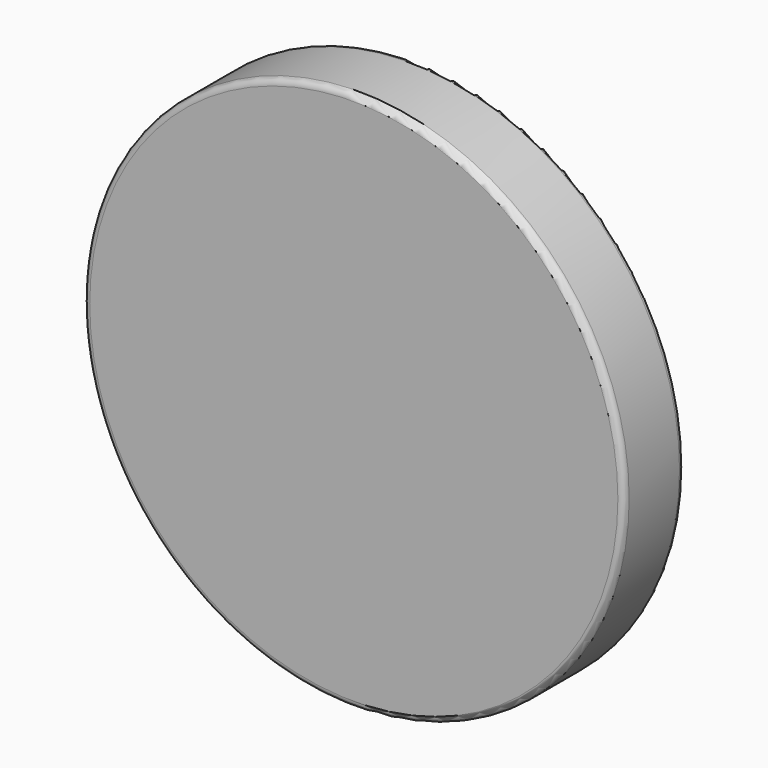
from build123d import *

# Parameters (mm, degrees)
F0_R     = 21.5
F1_DEPTH = 6
F2_R     = 2
F3_DEPTH = 4.5
F4_R     = 0.5


with BuildPart() as f1:
    # F0 (on Front) → F1 (new body)
    with BuildSketch(Plane.XZ):
        Circle(F0_R)
    extrude(amount=F1_DEPTH)

    # F2 (on face) → F3 (cut)
    with BuildSketch(Plane(origin=(0, 0, 0), x_dir=(-1, 0, 0), z_dir=(0, 1, 0))):
        Circle(F2_R)
    extrude(amount=-F3_DEPTH, mode=Mode.SUBTRACT)

    # F4
    f4_edges = [f1.edges().sort_by_distance(p)[0] for p in [
        (-21.5, 0, 0),
        (-21.5, -6, 0),
    ]]
    fillet(f4_edges, radius=F4_R)


solid = f1.part
